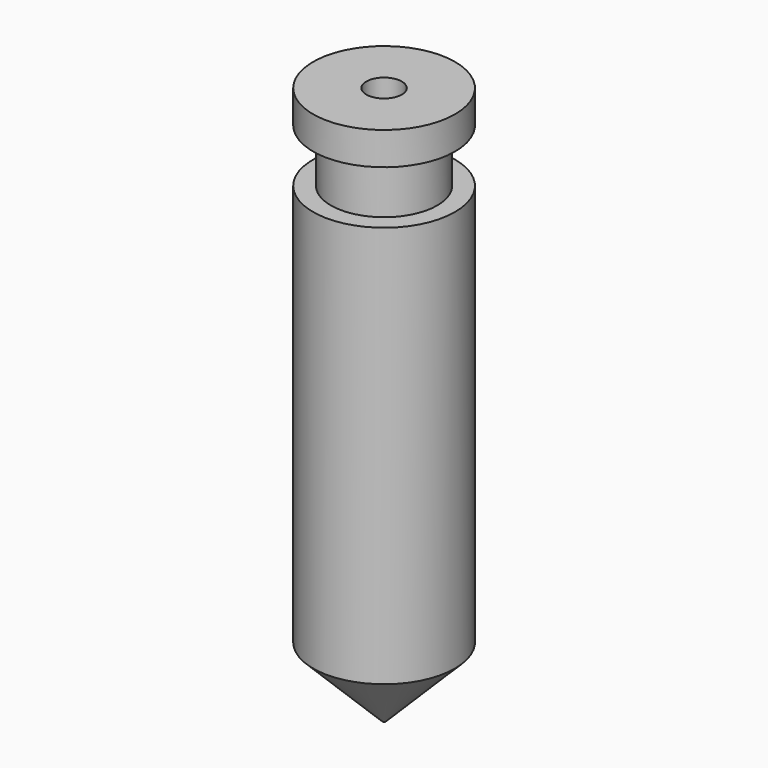
from build123d import *

# Parameters (mm, degrees)
F0_R     = 8
F0_R_2   = 6
F1_DEPTH = 53.3
F2_DEPTH = 6
F3_START = 6
F3_DEPTH = 3.7
F4_SIZE  = 8
F5_D     = 4
F5_DEPTH = 20
F5_TIP   = 1.2017212381
F6_D     = 0.4
F6_DEPTH = 70
F6_TIP   = 0.1201721238


with BuildPart() as f1:
    # F0 (on Top) → F1 (new body)
    with BuildSketch(Plane.XY):
        with Locations((-42.3969104886, 33.1056714058)):
            Circle(F0_R)
        with Locations((-42.3969104886, 33.1056714058)):
            Circle(F0_R_2, mode=Mode.SUBTRACT)
        with Locations((-42.3969104886, 33.1056714058)):
            Circle(F0_R_2)
    extrude(amount=-F1_DEPTH)

    # F0 (on Top) → F2 (join)
    with BuildSketch(Plane.XY):
        with Locations((-42.3969104886, 33.1056714058)):
            Circle(F0_R_2)
    extrude(amount=F2_DEPTH)

    # F0 (on Top) → F3 (join)
    with BuildSketch(Plane.XY.offset(F3_START)):
        with Locations((-42.3969104886, 33.1056714058)):
            Circle(F0_R)
        with Locations((-42.3969104886, 33.1056714058)):
            Circle(F0_R_2, mode=Mode.SUBTRACT)
        with Locations((-42.3969104886, 33.1056714058)):
            Circle(F0_R_2)
    extrude(amount=F3_DEPTH)

    # F4
    f4_edges = [f1.edges().sort_by_distance(p)[0] for p in [
        (-50.39691, 33.105671, -53.3),
    ]]
    chamfer(f4_edges, length=F4_SIZE)

    # F5 (one way)
    with BuildSketch(Plane(origin=(0, 0, 0), x_dir=(1, 0, 0), z_dir=(0, 0, -1))):
        with Locations((-42.3969104886, -33.1056714058)):
            Circle(F5_D / 2)
    extrude(amount=-F5_DEPTH, mode=Mode.SUBTRACT)
    with Locations(Plane(origin=(0, 0, 0), x_dir=(1, 0, 0), z_dir=(0, 0, -1))):
        with Locations((-42.3969104886, -33.1056714058)):
            with Locations((0, 0, -(F5_DEPTH + F5_TIP / 2))):  # 118° drill point
                Cone(0, F5_D / 2, F5_TIP, mode=Mode.SUBTRACT)

    # F6
    with Locations(Plane.XY):
        with Locations((-42.3969104886, 33.1056714058)):
            Hole(F6_D / 2, depth=F6_DEPTH)
            with Locations((0, 0, -(F6_DEPTH + F6_TIP / 2))):  # 118° drill point
                Cone(0, F6_D / 2, F6_TIP, mode=Mode.SUBTRACT)


solid = f1.part
